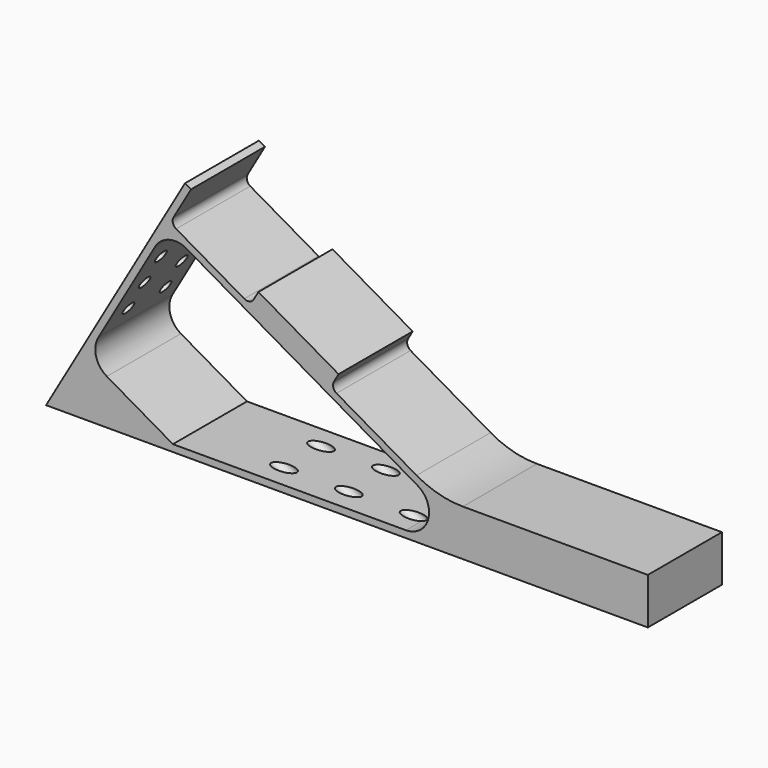
from build123d import *

# Parameters (mm, degrees)
F1_DEPTH = 10
F3_DEPTH = 20
F4_R     = 4.25
F5_DEPTH = 112.584302492
F4_R_2   = 5.5
F6_DEPTH = 2
F4_R_3   = 1.395
F7_DEPTH = 112.584302492


with BuildPart() as f1:
    # F0 (on Front) → F1 (new body, symmetric)
    with BuildSketch(Plane.XZ):
        with BuildLine():
            Line((30, 51.9615242271), (0, 0))
            Line((0, 0), (130, 0))
            Line((130, 0), (130, 10))
            Line((130, 10), (90.0384757729, 10))
            ThreePointArc((90.0384757729, 10), (84.8620948709, 10.6814834742), (80.0384757729, 12.6794919243))
            Line((80.0384757729, 12.6794919243), (62.7390923627, 22.667295593))
            ThreePointArc((62.7390923627, 22.667295593), (62.0402036233, 23.578105131), (62.1900542571, 24.7163336987))
            Line((62.1900542571, 24.7163336987), (63.1900542571, 26.4483845063))
            Line((63.1900542571, 26.4483845063), (45.8695461814, 36.4483845063))
            Line((45.8695461814, 36.4483845063), (44.8695461814, 34.7163336987))
            ThreePointArc((44.8695461814, 34.7163336987), (43.9587366433, 34.0174449592), (42.8205080757, 34.167295593))
            Line((42.8205080757, 34.167295593), (28.0980762114, 42.667295593))
            ThreePointArc((28.0980762114, 42.667295593), (27.3991874719, 43.578105131), (27.5490381057, 44.7163336987))
            Line((27.5490381057, 44.7163336987), (31.2990381057, 51.2115242271))
            Line((31.2990381057, 51.2115242271), (30, 51.9615242271))
        make_face()
    extrude(amount=F1_DEPTH, both=True)

    # F2 (on face) → F3 (cut)
    with BuildSketch(Plane.XZ.offset(10)):
        with BuildLine():
            ThreePointArc((30.3791651246, 39.6182574873), (26.5850698991, 40.1177595999), (23.5490381057, 37.7881304684))
            Line((23.5490381057, 37.7881304684), (11.2990381057, 16.5705080757))
            ThreePointArc((11.2990381057, 16.5705080757), (10.7995359932, 12.7764128502), (13.1291651246, 9.7403810568))
            Line((13.1291651246, 9.7403810568), (27.4019237886, 1.5))
            Line((27.4019237886, 1.5), (77.7416697508, 1.5))
            ThreePointArc((77.7416697508, 1.5), (82.5712988822, 5.2059047745), (80.2416697508, 10.8301270189))
            Line((80.2416697508, 10.8301270189), (30.3791651246, 39.6182574873))
        make_face()
    extrude(amount=-F3_DEPTH, mode=Mode.SUBTRACT)

    # F4 (on face) → F5 (cut, through all)
    with BuildSketch(Plane(origin=(0, 0, 0), x_dir=(0, -1, 0), z_dir=(-0.8660254038, 0, 0.5))):
        with Locations((0, 7.5)):
            Circle(F4_R)
    extrude(amount=-F5_DEPTH, mode=Mode.SUBTRACT)

    # F4 (on face) → F6 (cut)
    with BuildSketch(Plane(origin=(0, 0, 0), x_dir=(0, -1, 0), z_dir=(-0.8660254038, 0, 0.5))):
        with Locations((0, 7.5)):
            Circle(F4_R_2)
        with Locations((0, 7.5)):
            Circle(F4_R, mode=Mode.SUBTRACT)
    extrude(amount=-F6_DEPTH, mode=Mode.SUBTRACT)

    # F4 (on face) → F7 (cut, through all)
    with BuildSketch(Plane(origin=(0, 0, 0), x_dir=(0, -1, 0), z_dir=(-0.8660254038, 0, 0.5))):
        with Locations((-5, 25)):
            Circle(F4_R_3)
        with Locations((5, 32)):
            Circle(F4_R_3)
        with Locations((-5, 32)):
            Circle(F4_R_3)
        with Locations((5, 39)):
            Circle(F4_R_3)
        with Locations((-5, 39)):
            Circle(F4_R_3)
        with Locations((5, 25)):
            Circle(F4_R_3)
    extrude(amount=-F7_DEPTH, mode=Mode.SUBTRACT)


solid = f1.part
